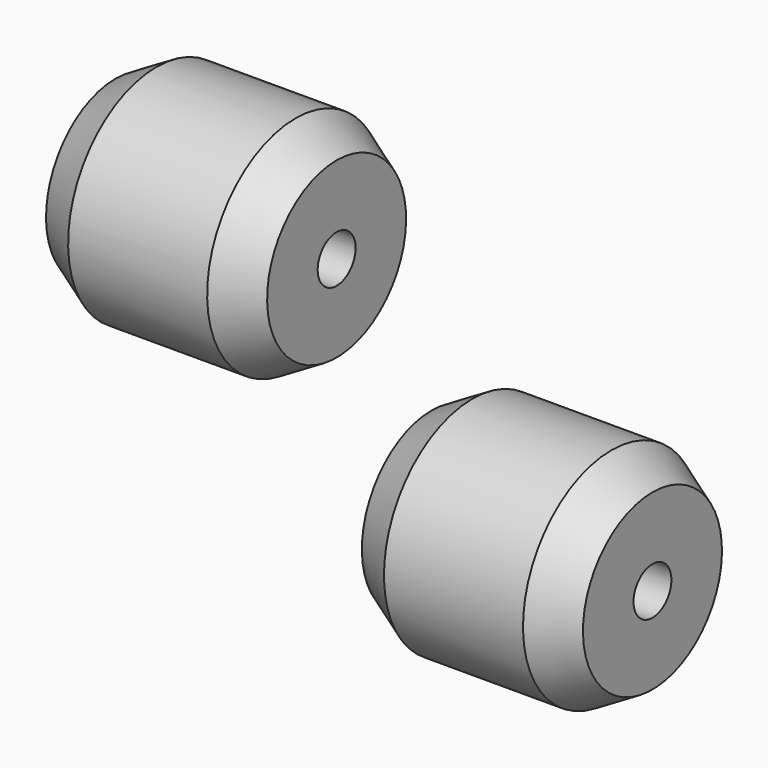
from build123d import *

# Parameters (mm, degrees)
F3_R     = 4.7625
F4_DEPTH = 107.951


with BuildPart() as f1:
    # F0 (on Front) → F1 (revolve)
    with BuildSketch(Plane.XZ):
        Polygon((0, 17.4625), (0, 0), (44.45, 0), (44.45, 17.4625), (36.201108, 22.225), (8.248892, 22.225), align=None)
    revolve(axis=Axis((22.225, 0, 0), (1, 0, 0)))


with BuildPart() as f2:
    # F0 (on Front) → F2 (revolve)
    with BuildSketch(Plane.XZ):
        Polygon((63.5, -20.6375), (63.5, -38.1), (107.95, -38.1), (107.95, -20.6375), (99.701108, -15.875), (71.748892, -15.875), align=None)
    revolve(axis=Axis((85.725, 0, -38.1), (1, 0, 0)))


with BuildPart() as f4_tool:
    # F3 (on face) → F4 (new body, through all)
    with BuildSketch(Plane(origin=(0, 0, 0), x_dir=(0, -1, 0), z_dir=(-1, 0, 0))):
        Circle(F3_R)
        with Locations((0, -38.1)):
            Circle(F3_R)
    extrude(amount=-F4_DEPTH)


with BuildPart() as f1_1:
    add(f1.part)

    # F4: cut by f4_tool
    add(f4_tool.part, mode=Mode.SUBTRACT)


with BuildPart() as f2_1:
    add(f2.part)

    # F4: cut by f4_tool
    add(f4_tool.part, mode=Mode.SUBTRACT)


solid = Compound([f1_1.part, f2_1.part])
